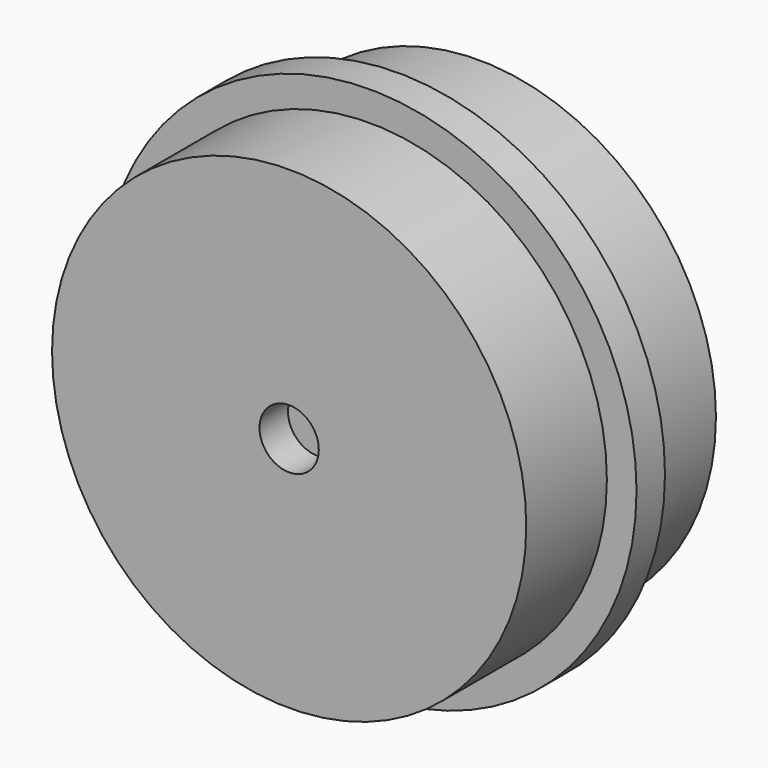
from build123d import *

# Parameters (mm, degrees)
F0_R     = 20
F0_R_2   = 15
F1_DEPTH = 10
F3_R     = 22.5
F3_R_2   = 2.5
F4_DEPTH = 1.5
F7_R     = 15
F7_R_2   = 2.5
F8_DEPTH = 3


with BuildPart() as f1:
    # F0 (on Front) → F1 (new body)
    with BuildSketch(Plane.XZ):
        Circle(F0_R)
        Circle(F0_R_2, mode=Mode.SUBTRACT)
    extrude(amount=F1_DEPTH)

    # F2: F1 across plane


with BuildPart() as f1_1:
    add(f1.part)
    add(f1.part.mirror(Plane.XZ))

    # F3 (on Front) → F4 (join)
    with BuildSketch(Plane.XZ):
        Circle(F3_R)
        Circle(F3_R_2, mode=Mode.SUBTRACT)
    extrude(amount=F4_DEPTH)

    # F5: F1 across plane


with BuildPart() as f1_2:
    add(f1_1.part)
    add(f1_1.part.mirror(Plane.XZ))

    # F7 (on offset) → F8 (join)
    with BuildSketch(Plane.XZ.offset(10)):
        Circle(F7_R)
        Circle(F7_R_2, mode=Mode.SUBTRACT)
    extrude(amount=-F8_DEPTH)

    # F9: F1 across plane


with BuildPart() as f1_3:
    add(f1_2.part)
    add(f1_2.part.mirror(Plane.XZ))


solid = f1_3.part
